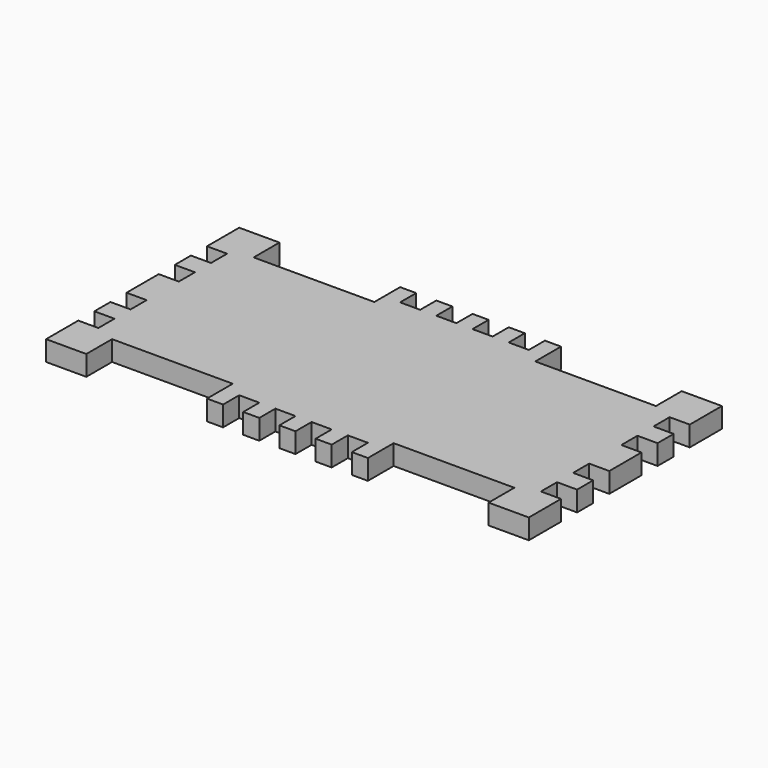
from build123d import *

# Parameters (mm, degrees)
F1_DEPTH = 6.35


with BuildPart() as f1:
    # F0 (on Top) → F1 (new body)
    with BuildSketch(Plane.XY):
        Polygon((-76.2, 0), (0, 0), (0, 38.1), (-2.54, 38.1), (-2.54, 31.75), (-8.89, 31.75), (-8.89, 38.1), (-13.97, 38.1), (-13.97, 31.75), (-20.32, 31.75), (-20.32, 38.1), (-25.4, 38.1), (-25.4, 27.94), (-63.5, 27.94), (-63.5, 38.1), (-76.2, 38.1), (-76.2, 25.4), (-69.85, 25.4), (-69.85, 19.05), (-76.2, 19.05), (-76.2, 12.7), (-69.85, 12.7), (-69.85, 6.35), (-76.2, 6.35), align=None)
        Polygon((0, -38.1), (0, 0), (-76.2, 0), (-76.2, -6.35), (-69.85, -6.35), (-69.85, -12.7), (-76.2, -12.7), (-76.2, -19.05), (-69.85, -19.05), (-69.85, -25.4), (-76.2, -25.4), (-76.2, -38.1), (-63.5, -38.1), (-63.5, -27.94), (-25.4, -27.94), (-25.4, -38.1), (-20.32, -38.1), (-20.32, -31.75), (-13.97, -31.75), (-13.97, -38.1), (-8.89, -38.1), (-8.89, -31.75), (-2.54, -31.75), (-2.54, -38.1), align=None)
        Polygon((63.5, -38.1), (76.2, -38.1), (76.2, -25.4), (69.85, -25.4), (69.85, -19.05), (76.2, -19.05), (76.2, -12.7), (69.85, -12.7), (69.85, -6.35), (76.2, -6.35), (76.2, 0), (0, 0), (0, -38.1), (2.54, -38.1), (2.54, -31.75), (8.89, -31.75), (8.89, -38.1), (13.97, -38.1), (13.97, -31.75), (20.32, -31.75), (20.32, -38.1), (25.4, -38.1), (25.4, -27.94), (63.5, -27.94), align=None)
        Polygon((0, 0), (76.2, 0), (76.2, 6.35), (69.85, 6.35), (69.85, 12.7), (76.2, 12.7), (76.2, 19.05), (69.85, 19.05), (69.85, 25.4), (76.2, 25.4), (76.2, 38.1), (63.5, 38.1), (63.5, 27.94), (25.4, 27.94), (25.4, 38.1), (20.32, 38.1), (20.32, 31.75), (13.97, 31.75), (13.97, 38.1), (8.89, 38.1), (8.89, 31.75), (2.54, 31.75), (2.54, 38.1), (0, 38.1), align=None)
    extrude(amount=F1_DEPTH)


solid = f1.part
